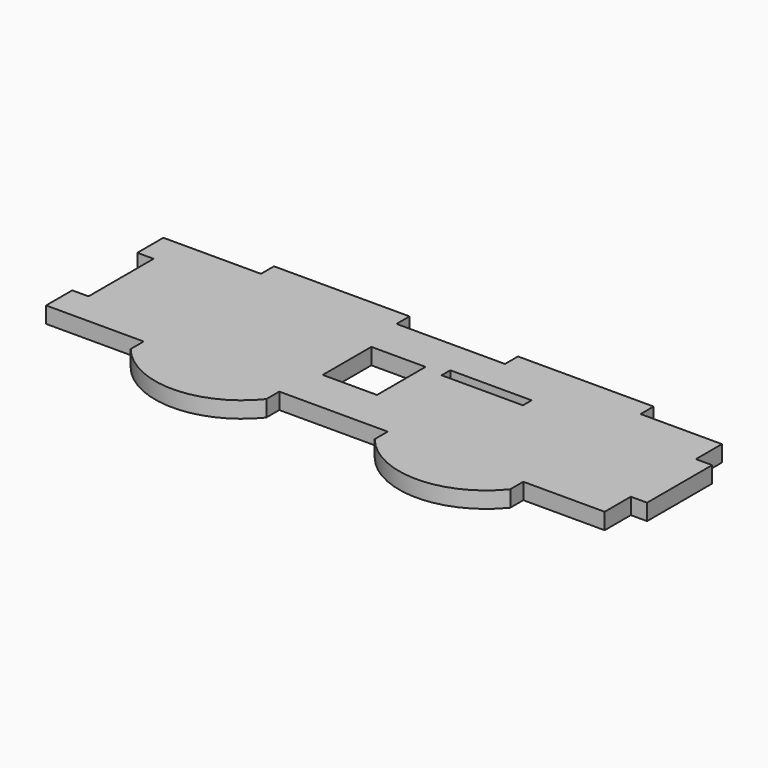
from build123d import *

# Parameters (mm, degrees)
SKETCH_W      = 10
SKETCH_H      = 11.2
SKETCH_W_2    = 15
SKETCH_H_2    = 2
EXTRUDE_DEPTH = 3


with BuildPart() as part:
    # Sketch → Extrude (new body)
    with BuildSketch(Plane.XY):
        with BuildLine():
            Line((40, -6.37), (40, -9.37))
            ThreePointArc((15, -9.37), (27.5, -15.37), (40, -9.37))
            Line((15, -9.37), (15, -6.37))
            Line((15, -6.37), (0, -6.37))
            Line((-3, -6.37), (0, -6.37))
            Line((-3, -0.34), (-3, -6.37))
            Line((-3, -0.34), (0, -0.34))
            Line((0, 14.66), (0, -0.34))
            Line((0, 14.66), (-3, 14.66))
            Line((-3, 14.66), (-3, 20.66))
            Line((-3, 20.66), (0, 20.66))
            Line((0, 20.66), (15, 20.66))
            Line((15, 23.66), (15, 20.66))
            Line((40, 23.66), (15, 23.66))
            Line((40, 20.66), (40, 23.66))
            Line((40, 20.66), (60, 20.66))
            Line((60, 23.66), (60, 20.66))
            Line((85, 23.66), (60, 23.66))
            Line((85, 20.66), (85, 23.66))
            Line((85, 20.66), (100, 20.66))
            Line((100, 20.66), (100, 14.66))
            Line((100, 14.66), (103, 14.66))
            Line((103, 14.66), (103, -0.34))
            Line((103, -0.34), (100, -0.34))
            Line((100, -0.34), (100, -6.37))
            Line((100, -6.37), (85, -6.37))
            Line((85, -6.37), (85, -9.37))
            ThreePointArc((60, -9.37), (72.5, -15.37), (85, -9.37))
            Line((60, -9.37), (60, -6.37))
            Line((60, -6.37), (40, -6.37))
        make_face()
        with Locations((46.64, 7.2)):
            Rectangle(SKETCH_W, SKETCH_H, mode=Mode.SUBTRACT)
        with Locations((62.58, 13.2)):
            Rectangle(SKETCH_W_2, SKETCH_H_2, mode=Mode.SUBTRACT)
    extrude(amount=EXTRUDE_DEPTH)


solid = part.part
